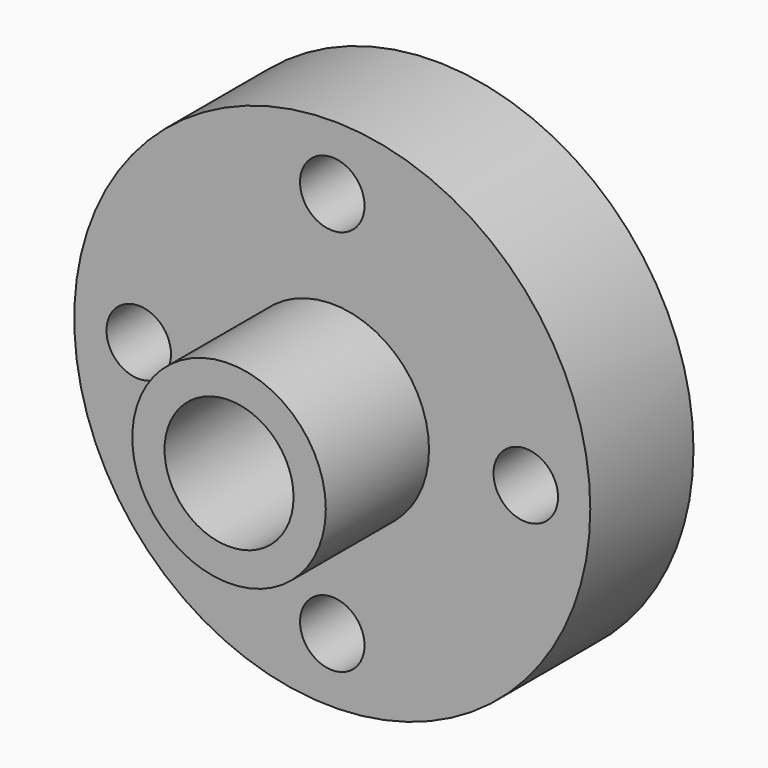
from build123d import *

# Parameters (mm, degrees)
F0_R     = 101.6
F1_DEPTH = 50.8
F2_R     = 38.1
F3_DEPTH = 50.8
F4_R     = 25.4
F5_DEPTH = 148.082
F6_R     = 12.7
F7_DEPTH = 95.758


with BuildPart() as f1:
    # F0 (on Front) → F1 (new body)
    with BuildSketch(Plane.XZ):
        Circle(F0_R)
    extrude(amount=F1_DEPTH)

    # F2 (on face) → F3 (join)
    with BuildSketch(Plane.XZ.offset(50.8)):
        Circle(F2_R)
    extrude(amount=F3_DEPTH)

    # F4 (on face) → F5 (cut)
    with BuildSketch(Plane.XZ.offset(101.6)):
        Circle(F4_R)
    extrude(amount=-F5_DEPTH, mode=Mode.SUBTRACT)

    # F6 (on face) → F7 (cut)
    with BuildSketch(Plane.XZ.offset(50.8)):
        with Locations((0, 76.2)):
            Circle(F6_R)
        with Locations((76.2, 0)):
            Circle(F6_R)
        with Locations((0, -76.2)):
            Circle(F6_R)
        with Locations((-76.2, 0)):
            Circle(F6_R)
    extrude(amount=-F7_DEPTH, mode=Mode.SUBTRACT)


solid = f1.part
